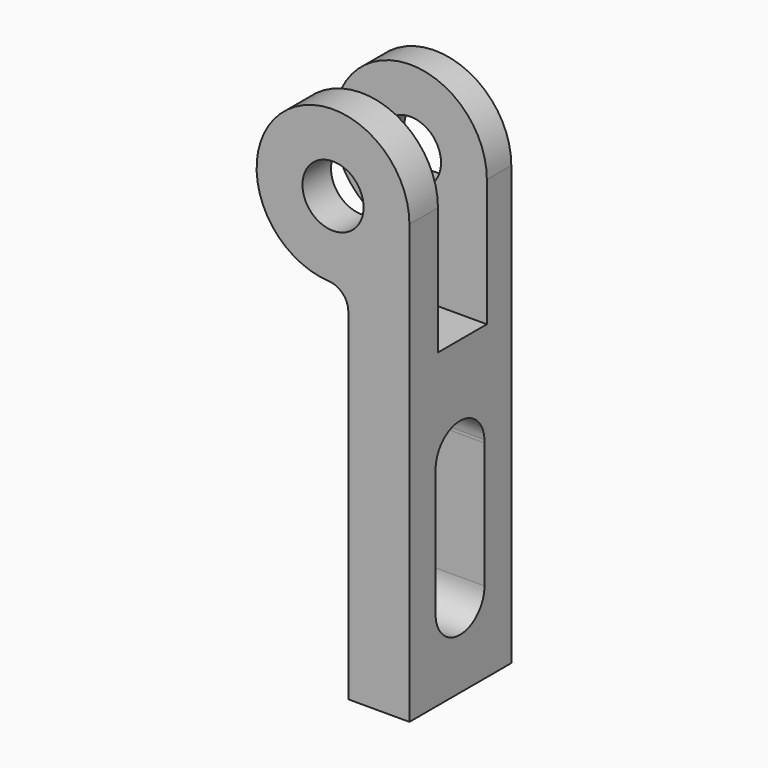
from build123d import *

# Parameters (mm, degrees)
F0_R     = 6
F1_DEPTH = 25
F3_W     = 12
F3_H     = 47.911397
F4_DEPTH = 60.286648


with BuildPart() as f1:
    # F0 (on Front) → F1 (new body)
    with BuildSketch(Plane.XZ):
        with BuildLine():
            Line((1.585648, -66.477157), (1.585648, 19.522843))
            ThreePointArc((1.585648, 19.522843), (-23.73806, 30.404987), (-14.203826, 4.543633))
            ThreePointArc((-14.203826, 4.543633), (-11.512447, 3.302166), (-10.414352, 0.549177))
            Line((-10.414352, 0.549177), (-10.414352, -66.477157))
            Line((-10.414352, -66.477157), (1.585648, -66.477157))
        make_face()
        with Locations((-13.414352, 19.522843)):
            Circle(F0_R, mode=Mode.SUBTRACT)
    extrude(amount=F1_DEPTH)

    # F3 (on offset) → F4 (cut, through all)
    with BuildSketch(Plane.YZ.offset(-58.7)):
        with Locations((-12, 18.478541)):
            Rectangle(F3_W, F3_H)
        with BuildLine():
            Line((-6.583733, -50.475587), (-6.590202, -25.755703))
            Line((-6.590202, -25.755703), (-6.590348, -25.195473))
            ThreePointArc((-6.590348, -25.195473), (-12.919821, -19.486577), (-18.571014, -25.867622))
            Line((-18.571014, -25.867622), (-18.583732, -50.474056))
            ThreePointArc((-18.583732, -50.474056), (-12.584498, -56.477157), (-6.583733, -50.475587))
        make_face()
    extrude(amount=F4_DEPTH, mode=Mode.SUBTRACT)


solid = f1.part
